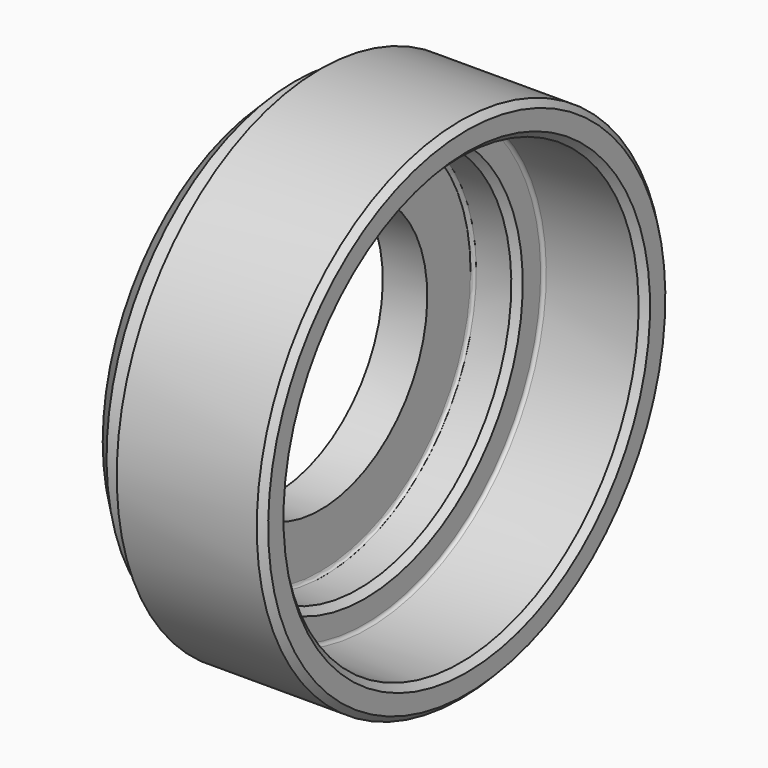
from build123d import *

# Parameters (mm, degrees)
F2_SIZE = 3
F3_SIZE = 1
F4_R    = 0.5


with BuildPart() as f1:
    # F0 (on Front) → F1 (revolve)
    with BuildSketch(Plane.XZ):
        Polygon((-7, 21), (0, 21), (0, 30), (7, 30), (7, 35), (23, 35), (23, 40), (0, 40), (0, 37), (-7, 37), align=None)
    revolve(axis=Axis((-3.5, 0, 0), (1, 0, 0)))

    # F2
    f2_edges = [f1.edges().sort_by_distance(p)[0] for p in [
        (-7, 0, -37),
    ]]
    chamfer(f2_edges, length=F2_SIZE)

    # F3
    f3_edges = [f1.edges().sort_by_distance(p)[0] for p in [
        (23, 0, -40),
        (23, 0, -35),
        (7, 0, -30),
    ]]
    chamfer(f3_edges, length=F3_SIZE)

    # F4
    f4_edges = [f1.edges().sort_by_distance(p)[0] for p in [
        (0, 0, -30),
        (7, 0, -35),
    ]]
    fillet(f4_edges, radius=F4_R)


solid = f1.part
